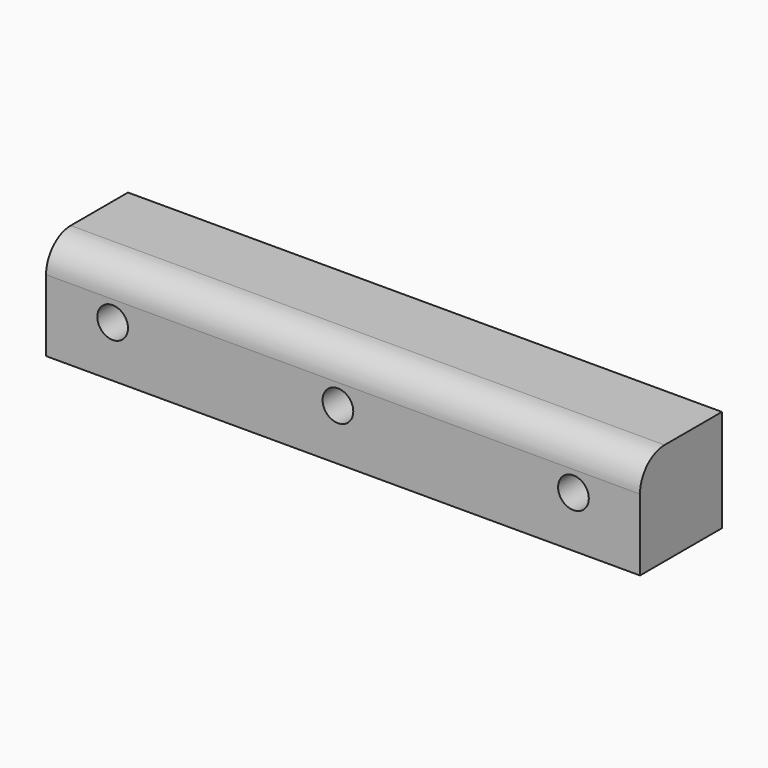
from build123d import *

# Parameters (mm, degrees)
CYLINDER043_R     = 1.5
CYLINDER043_DEPTH = 10
CYLINDER044_R     = 1.5
CYLINDER044_DEPTH = 10
CYLINDER042_R     = 1.5
CYLINDER042_DEPTH = 10
BOX020_W          = 58
BOX020_H          = 10
BOX020_DEPTH      = 10
FILLET009_R       = 3


with BuildPart() as cylinder043:
    # Cylinder043 → Cylinder043 (new body)
    with BuildSketch(Plane(origin=(28, 11, 14), x_dir=(1, 0, 0), z_dir=(0, -1, 0))):
        Circle(CYLINDER043_R)
    extrude(amount=CYLINDER043_DEPTH)


with BuildPart() as cylinder044:
    # Cylinder044 → Cylinder044 (new body)
    with BuildSketch(Plane(origin=(51, 11, 14), x_dir=(1, 0, 0), z_dir=(0, -1, 0))):
        Circle(CYLINDER044_R)
    extrude(amount=CYLINDER044_DEPTH)


with BuildPart() as fusion033:
    # Cylinder042 → Cylinder042 (new body)
    with BuildSketch(Plane(origin=(6, 11, 14), x_dir=(1, 0, 0), z_dir=(0, -1, 0))):
        Circle(CYLINDER042_R)
    extrude(amount=CYLINDER042_DEPTH)

    # Fusion033: union Cylinder043, Cylinder044
    add(cylinder043.part)
    add(cylinder044.part)


with BuildPart() as frame_holes001:
    # Box020 → Box020 (new body)
    with BuildSketch(Plane.XY.offset(9)):
        with Locations((29, 5)):
            Rectangle(BOX020_W, BOX020_H)
    extrude(amount=BOX020_DEPTH)

    # Fillet009
    fillet009_edges = [frame_holes001.edges().sort_by_distance(p)[0] for p in [
        (29, 0, 19),
    ]]
    fillet(fillet009_edges, radius=FILLET009_R)


with BuildPart() as frame_holes001_1:
    # Fillet009 placement: moved
    add(frame_holes001.part.moved(Location((-0.5, 1, 0))))

    # Cut018: cut Fusion033
    add(fusion033.part, mode=Mode.SUBTRACT)


solid = frame_holes001_1.part
